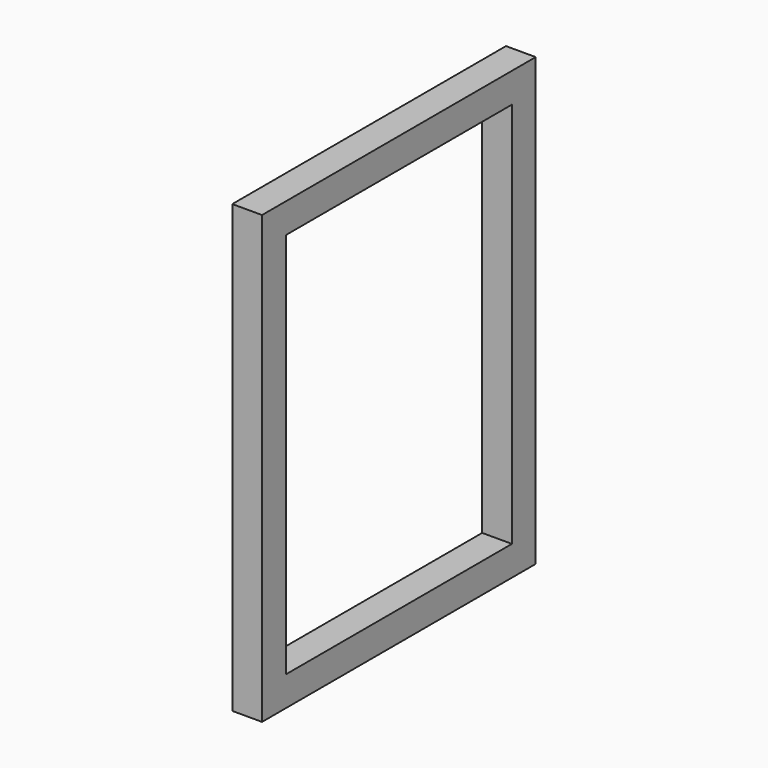
from build123d import *

# Parameters (mm, degrees)
BOX049_W     = 10
BOX049_H     = 10
BOX049_DEPTH = 130
BOX050_W     = 10
BOX050_H     = 115
BOX050_DEPTH = 10
BOX051_W     = 10
BOX051_H     = 115
BOX051_DEPTH = 10
BOX048_W     = 10
BOX048_H     = 10
BOX048_DEPTH = 130


with BuildPart() as cubo012:
    # Box049 → Box049 (new body)
    with BuildSketch(Plane(origin=(-37, 115, 15), x_dir=(1, 0, 0), z_dir=(0, 0, 1))):
        with Locations((5, 5)):
            Rectangle(BOX049_W, BOX049_H)
    extrude(amount=BOX049_DEPTH)


with BuildPart() as cubo013:
    # Box050 → Box050 (new body)
    with BuildSketch(Plane(origin=(-37, 115, 145), x_dir=(1, 0, 0), z_dir=(0, 0, 1))):
        with Locations((5, 57.5)):
            Rectangle(BOX050_W, BOX050_H)
    extrude(amount=BOX050_DEPTH)


with BuildPart() as cubo014:
    # Box051 → Box051 (new body)
    with BuildSketch(Plane(origin=(-37, 115, 5), x_dir=(1, 0, 0), z_dir=(0, 0, 1))):
        with Locations((5, 57.5)):
            Rectangle(BOX051_W, BOX051_H)
    extrude(amount=BOX051_DEPTH)


with BuildPart() as fusion007:
    # Box048 → Box048 (new body)
    with BuildSketch(Plane(origin=(-37, 220, 15), x_dir=(1, 0, 0), z_dir=(0, 0, 1))):
        with Locations((5, 5)):
            Rectangle(BOX048_W, BOX048_H)
    extrude(amount=BOX048_DEPTH)

    # Fusion007: union Cubo012, Cubo013, Cubo014
    add(cubo012.part)
    add(cubo013.part)
    add(cubo014.part)


with BuildPart() as fusion007_1:
    # Fusion007 placement: moved
    add(fusion007.part.moved(Location((26.5, -253, 1))))


solid = fusion007_1.part
